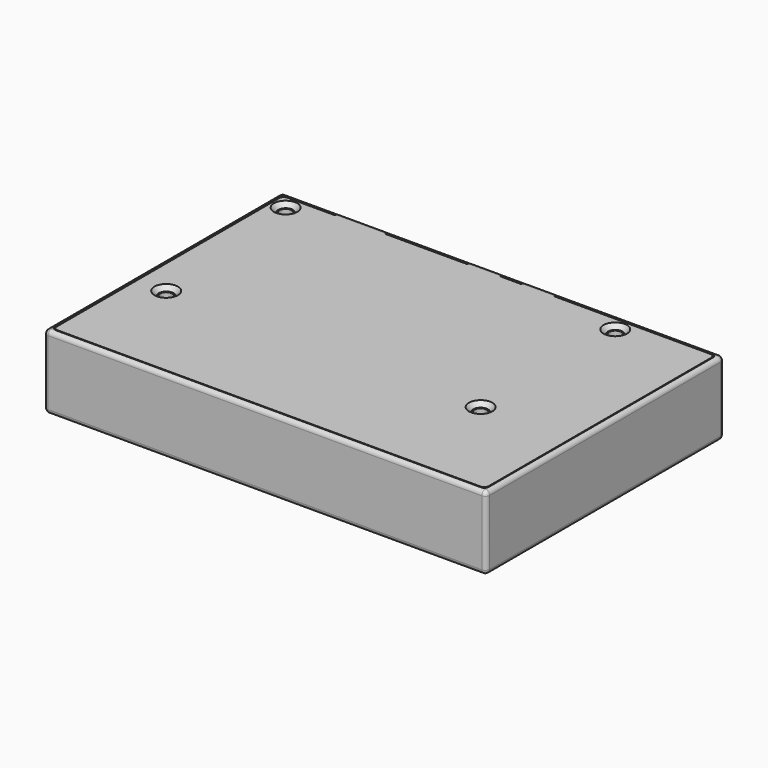
from build123d import *

# Parameters (mm, degrees)
SKETCH_W             = 102
SKETCH_H             = 68.6
PAD_DEPTH            = 17
SKETCH001_W          = 100
SKETCH001_H          = 66.6
POCKET_DEPTH         = 16
SKETCH002_W          = 1
SKETCH002_H          = 43.6
SKETCH002_W_2        = 29.9
SKETCH002_H_2        = 30.1
SKETCH002_W_3        = 27.9
SKETCH002_H_3        = 28.1
PAD001_DEPTH         = 3.2
SKETCH003_W          = 24
SKETCH003_H          = 12.5
POCKET001_DEPTH      = 1.001
PAD002_DEPTH         = 91
PAD003_DEPTH         = 1
LINEARPATTERN_COUNT  = 3
LINEARPATTERN_PITCH  = 45.5
SKETCH012_W          = 100
SKETCH012_H          = 66.6
SKETCH012_W_2        = 98
SKETCH012_H_2        = 64.6
PAD008_DEPTH         = 1
SKETCH007_R          = 2.4
SKETCH007_R_2        = 1.4
PAD004_DEPTH         = 15
SKETCH006_W          = 12
SKETCH006_H          = 6.5
SKETCH006_W_2        = 8
SKETCH006_H_2        = 6
POCKET002_DEPTH      = 5
POCKET002_DEPTH_BACK = 2
FILLET_R             = 0.9999
CHAMFER_SIZE         = 0.999
SKETCH009_W          = 99.6
SKETCH009_H          = 66.2
PAD006_DEPTH         = 1
HOLE_D               = 3.4
HOLE_CSINK_D         = 5.4
HOLE_CSINK_ANGLE     = 90
PAD007_DEPTH         = 1.2
FILLET004_R          = 1
SKETCH013_R          = 2.35
PAD009_DEPTH         = 3
FILLET005_R          = 1
SKETCH014_W          = 1
SKETCH014_H          = 21
PAD010_DEPTH         = 5
FILLET006_R          = 1.5


with BuildPart() as case_base:
    # Sketch → Pad (new body)
    with BuildSketch(Plane.XY):
        with Locations((50, 33.3)):
            Rectangle(SKETCH_W, SKETCH_H)
    extrude(amount=PAD_DEPTH)

    # Sketch001 (on Face6 of Pad) → Pocket (cut)
    with BuildSketch(Plane.XY.offset(17)):
        with Locations((50, 33.3)):
            Rectangle(SKETCH001_W, SKETCH001_H)
    extrude(amount=-POCKET_DEPTH, mode=Mode.SUBTRACT)

    # Sketch002 (on Face11 of Pocket) → Pad001 (join)
    with BuildSketch(Plane.XY.offset(1)):
        with Locations((81.3, 44.8)):
            Rectangle(SKETCH002_W, SKETCH002_H)
        with Locations((63.05, 39.55)):
            Rectangle(SKETCH002_W_2, SKETCH002_H_2)
        with Locations((63.05, 39.55)):
            Rectangle(SKETCH002_W_3, SKETCH002_H_3, mode=Mode.SUBTRACT)
    extrude(amount=PAD001_DEPTH)

    # Sketch003 (on Face11 of Pocket) → Pocket001 (cut, through all)
    with BuildSketch(Plane.XY.offset(1)):
        with Locations((63.05, 41.65)):
            Rectangle(SKETCH003_W, SKETCH003_H)
        Polygon((11.1, 44.2), (11.1, 54.3), (21.2, 54.3), (21.2, 44.2), (31.3, 44.2), (31.3, 34.1), (21.2, 34.1), (21.2, 24), (11.1, 24), (11.1, 34.1), (1, 34.1), (1, 44.2), align=None)
    extrude(amount=-POCKET001_DEPTH, mode=Mode.SUBTRACT)

    # Sketch004 (on DatumPlane) → Pad002 (join)
    with BuildSketch(Plane.YZ.offset(4.5)):
        with BuildLine():
            ThreePointArc((0, 6.5), (4.980299, 1.024609), (10.901786, 5.465248))
            ThreePointArc((11.098214, 5.465248), (11, 5.546435), (10.901786, 5.465248))
            ThreePointArc((11.098214, 5.465248), (17.019701, 1.024609), (22, 6.5))
            Line((22, 6.5), (22, 7.5))
            Line((22, 7.5), (23, 7.5))
            Line((23, 7.5), (23, 0.2))
            Line((23, 0.2), (0, 0.2))
            Line((0, 0.2), (0, 6.5))
        make_face()
    extrude(amount=PAD002_DEPTH)

    # Sketch005 (on DatumPlane) → Pad003 (join)
    with BuildSketch(Plane.YZ.offset(4.5)):
        with BuildLine():
            Line((0, 0.2), (0, 7.5))
            Line((3.5, 7.5), (0, 7.5))
            Line((3.5, 7.5), (3.5, 5.5))
            ThreePointArc((3.5, 5.5), (5.5, 3.5), (7.5, 5.5))
            Line((7.5, 7.5), (7.5, 5.5))
            Line((7.5, 7.5), (14.5, 7.5))
            Line((14.5, 7.5), (14.5, 5.5))
            ThreePointArc((14.5, 5.5), (16.5, 3.5), (18.5, 5.5))
            Line((18.5, 7.5), (18.5, 5.5))
            Line((18.5, 7.5), (22, 7.5))
            Line((22, 7.5), (23, 7.5))
            Line((23, 0.2), (23, 7.5))
            Line((0, 0.2), (23, 0.2))
        make_face()
    pad003 = extrude(amount=PAD003_DEPTH)

    # LinearPattern: Pad003 ×3
    with Locations(*[(i * LINEARPATTERN_PITCH, 0, 0) for i in range(1, LINEARPATTERN_COUNT)]):
        add(pad003)

    # Sketch012 (on DatumPlane) → Pad008 (join)
    with BuildSketch(Plane.XY.offset(16)):
        with Locations((50, 33.3)):
            Rectangle(SKETCH012_W, SKETCH012_H)
        with Locations((50, 33.3)):
            Rectangle(SKETCH012_W_2, SKETCH012_H_2, mode=Mode.SUBTRACT)
    extrude(amount=-PAD008_DEPTH)

    # Sketch007 (on Face11 of Pocket) → Pad004 (join)
    with BuildSketch(Plane.XY.offset(1)):
        with Locations((6.9, 24.4)):
            Circle(SKETCH007_R)
        with Locations((6.9, 24.4)):
            Circle(SKETCH007_R_2, mode=Mode.SUBTRACT)
        with Locations((79.4, 24.4)):
            Circle(SKETCH007_R)
        with Locations((79.4, 24.4)):
            Circle(SKETCH007_R_2, mode=Mode.SUBTRACT)
        with BuildLine():
            ThreePointArc((77, 63.2), (79.4, 60.8), (81.8, 63.2))
            Line((81.8, 66.6), (81.8, 63.2))
            Line((77, 66.6), (81.8, 66.6))
            Line((77, 63.2), (77, 66.6))
        make_face()
        with Locations((79.4, 63.2)):
            Circle(SKETCH007_R_2, mode=Mode.SUBTRACT)
        with BuildLine():
            ThreePointArc((3.4, 60.8), (5.097056, 61.502944), (5.8, 63.2))
            Line((5.8, 66.6), (5.8, 63.2))
            Line((0, 66.6), (5.8, 66.6))
            Line((0, 60.8), (0, 66.6))
            Line((3.4, 60.8), (0, 60.8))
        make_face()
        with Locations((3.4, 63.2)):
            Circle(SKETCH007_R_2, mode=Mode.SUBTRACT)
    extrude(amount=PAD004_DEPTH)

    # Sketch006 (on Face9 of Pocket) → Pocket002 (cut, two sides)
    with BuildSketch(Plane.XZ.offset(-66.6)) as pocket002_sk:
        Polygon((86.9, 8.2), (94.9, 8.2), (94.9, 5), (94.5, 5), (94.5, 4), (87.3, 4), (87.3, 5), (86.9, 5), align=None)
        with Locations((18, 13.75)):
            Rectangle(SKETCH006_W, SKETCH006_H)
        with Locations((46.5, 14)):
            Rectangle(SKETCH006_W_2, SKETCH006_H_2)
        with Locations((59, 14)):
            Rectangle(SKETCH006_W_2, SKETCH006_H_2)
    extrude(amount=-POCKET002_DEPTH, mode=Mode.SUBTRACT)
    extrude(pocket002_sk.sketch, amount=POCKET002_DEPTH_BACK, mode=Mode.SUBTRACT)

    # Fillet
    fillet_edges = [case_base.edges().sort_by_distance(p)[0] for p in [
        (99, 65.6, 15.5),
        (100, 66.6, 8),
        (100, 66.6, 16.5),
        (101, 67.6, 8.5),
        (0, 66.6, 16.5),
        (-1, 67.6, 8.5),
        (0, 0, 8),
        (1, 1, 15.5),
        (0, 0, 16.5),
        (-1, -1, 8.5),
        (100, 0, 8),
        (99, 1, 15.5),
        (100, 0, 16.5),
        (101, -1, 8.5),
        (81.8, 66.6, 9.6),
        (77, 66.6, 8),
        (80.8, 61.250641, 2.6),
        (80.8, 26.349359, 2.6),
        (78, 26.349359, 2.6),
        (77.450641, 23, 4.25),
        (81.8, 23, 2.6),
        (5.8, 66.6, 8),
        (0, 60.8, 8),
        (41.4, 66.6, 1),
        (5.097056, 61.502944, 1),
        (78.304555, 61.064584, 1),
        (0, 30.4, 1),
        (90.9, 66.6, 1),
        (100, 33.3, 1),
        (98.25, 0, 1),
        (2.25, 0, 1),
        (80.8, 43.8, 1),
        (81.8, 43.8, 1),
        (50, 67.6, 0),
        (101, 33.3, 0),
        (50, -1, 0),
        (-1, 33.3, 0),
        (50, -1, 17),
        (-1, 33.3, 17),
        (101, 33.3, 17),
        (82, 67.6, 17),
        (52.75, 67.6, 17),
        (33.25, 67.6, 17),
        (5.5, 67.6, 17),
    ]]
    fillet(fillet_edges, radius=FILLET_R)

    # Chamfer
    chamfer_edges = [case_base.edges().sort_by_distance(p)[0] for p in [
        (50, 1, 15),
        (70, 65.6, 15),
        (52.75, 65.6, 15),
        (33.25, 65.6, 15),
        (8.9, 65.6, 15),
        (63.05, 47.9, 0),
        (75.05, 41.65, 0),
        (63.05, 35.4, 0),
        (51.05, 41.65, 0),
    ]]
    chamfer(chamfer_edges, length=CHAMFER_SIZE)


with BuildPart() as case_top:
    # Sketch009 → Pad006 (new body)
    with BuildSketch(Plane.XY):
        with Locations((50, 33.3)):
            Rectangle(SKETCH009_W, SKETCH009_H)
    extrude(amount=-PAD006_DEPTH)

    # Hole (through all)
    with Locations(Plane.XY):
        with Locations((79.4, 63.2), (79.4, 24.4), (6.9, 24.4), (3.4, 63.2)):
            CounterSinkHole(HOLE_D / 2, HOLE_CSINK_D / 2, counter_sink_angle=HOLE_CSINK_ANGLE)

    # Sketch011 (on Face6 of Hole) → Pad007 (join)
    with BuildSketch(Plane(origin=(0, 66.4, 0), x_dir=(-1, 0, 0), z_dir=(0, 1, 0))):
        Polygon((-23.8, 0), (-23.8, -1.3), (-23, -0.8), (-13, -0.8), (-12.2, -1.3), (-12.2, 0), align=None)
        Polygon((-42.7, -1.3), (-42.7, 0), (-50.3, 0), (-50.3, -1.3), (-49.8, -0.8), (-43.2, -0.8), align=None)
        Polygon((-55.2, -1.3), (-55.2, 0), (-62.8, 0), (-62.8, -1.3), (-62.3, -0.8), (-55.7, -0.8), align=None)
    extrude(amount=PAD007_DEPTH)

    # Fillet004
    fillet004_edges = [case_top.edges().sort_by_distance(p)[0] for p in [
        (0.2, 0.2, -0.5),
        (99.8, 0.2, -0.5),
        (99.8, 66.4, -0.5),
        (0.2, 66.4, -0.5),
        (18, 67.6, 0),
        (46.5, 67.6, 0),
        (59, 67.6, 0),
    ]]
    fillet(fillet004_edges, radius=FILLET004_R)

    # Sketch013 (on Face6 of Pad006) → Pad009 (join)
    with BuildSketch(Plane(origin=(0, 0, -1), x_dir=(1, 0, 0), z_dir=(0, 0, -1))):
        with Locations((11.5, -40.1)):
            Circle(SKETCH013_R)
        with Locations((69.5, -40.1)):
            Circle(SKETCH013_R)
        with Locations((11.5, -63.1)):
            Circle(SKETCH013_R)
        with Locations((69.5, -63.1)):
            Circle(SKETCH013_R)
    extrude(amount=PAD009_DEPTH)

    # Fillet005
    fillet005_edges = [case_top.edges().sort_by_distance(p)[0] for p in [
        (67.15, 63.1, -4),
        (9.15, 63.1, -4),
        (67.15, 40.1, -4),
        (9.15, 40.1, -4),
    ]]
    fillet(fillet005_edges, radius=FILLET005_R)

    # Sketch014 (on Face3 of Fillet005) → Pad010 (join)
    with BuildSketch(Plane(origin=(0, 0, -1), x_dir=(1, 0, 0), z_dir=(0, 0, -1))):
        with Locations((22.4, -11.5)):
            Rectangle(SKETCH014_W, SKETCH014_H)
        with Locations((40.8, -11.5)):
            Rectangle(SKETCH014_W, SKETCH014_H)
        with Locations((59.2, -11.5)):
            Rectangle(SKETCH014_W, SKETCH014_H)
        with Locations((77.6, -11.5)):
            Rectangle(SKETCH014_W, SKETCH014_H)
    extrude(amount=PAD010_DEPTH)

    # Fillet006
    fillet006_edges = [case_top.edges().sort_by_distance(p)[0] for p in [
        (78.1, 11.5, -1),
        (59.7, 11.5, -1),
    ]]
    fillet(fillet006_edges, radius=FILLET006_R)


with BuildPart() as case_top_1:
    # Body001 placement: moved
    add(case_top.part.moved(Location((0, 0, 17))))


solid = Compound([case_base.part, case_top_1.part])
